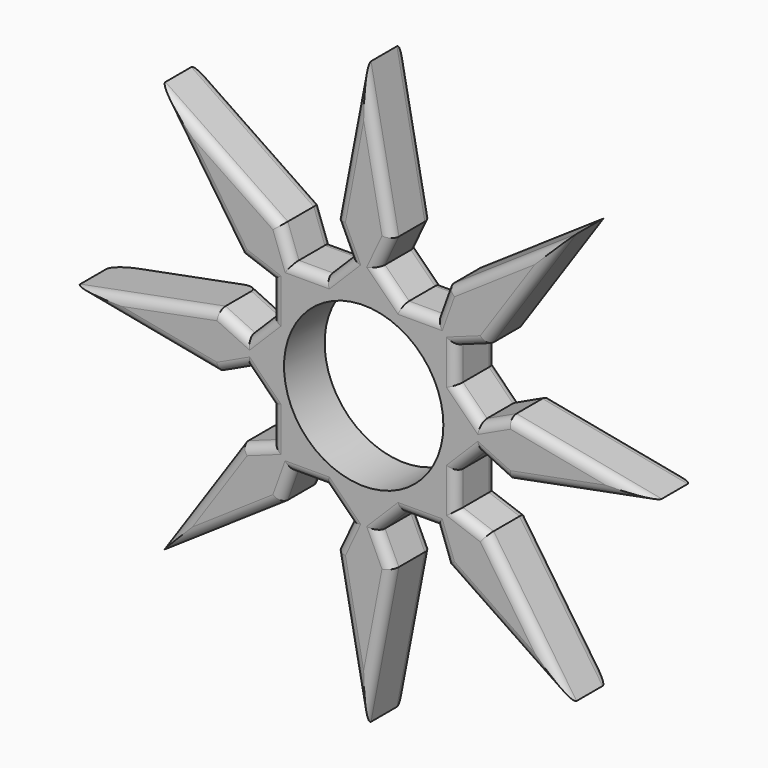
from build123d import *

# Parameters (mm, degrees)
F0_R     = 10.9982
F1_DEPTH = 7.0104
F2_R     = 1.27
F3_R     = 1.27


with BuildPart() as f1:
    # F0 (on Front) → F1 (new body)
    with BuildSketch(Plane.XZ):
        Polygon((-12.7, 9.9571658781), (-12.7, 5.2605122421), (-5.2605122421, 12.7), (-9.9571658781, 12.7), (-11.4818856978, 16.9197350247), (-28.3834853749, 28.3834853749), (-16.9197350247, 11.4818856978), align=None)
        Polygon((-16.0210356348, -1.9394766073), (-12.7, -5.2605122421), (-12.7, 5.2605122421), (-16.0210356348, 1.9394766073), (-20.0829786096, 3.8451401341), (-40.1403099645, 0), (-20.0829786096, -3.8451401341), align=None)
        Polygon((-9.9571658781, -12.7), (-5.2605122421, -12.7), (-12.7, -5.2605122421), (-12.7, -9.9571658781), (-16.9197350247, -11.4818856978), (-28.3834853749, -28.3834853749), (-11.4818856978, -16.9197350247), align=None)
        Polygon((1.9394766073, -16.0210356348), (5.2605122421, -12.7), (-5.2605122421, -12.7), (-1.9394766073, -16.0210356348), (-3.8451401341, -20.0829786096), (0, -40.1403099645), (3.8451401341, -20.0829786096), align=None)
        Polygon((12.7, -5.2605122421), (5.2605122421, -12.7), (9.9571658781, -12.7), (11.4818856978, -16.9197350247), (28.3834853749, -28.3834853749), (16.9197350247, -11.4818856978), (12.7, -9.9571658781), align=None)
        Polygon((12.7, 5.2605122421), (12.7, -5.2605122421), (16.0210356348, -1.9394766073), (20.0829786096, -3.8451401341), (40.1403099645, 0), (20.0829786096, 3.8451401341), (16.0210356348, 1.9394766073), align=None)
        Polygon((5.2605122421, 12.7), (12.7, 5.2605122421), (12.7, 9.9571658781), (16.9197350247, 11.4818856978), (28.3834853749, 28.3834853749), (11.4818856978, 16.9197350247), (9.9571658781, 12.7), align=None)
        Polygon((-5.2605122421, 12.7), (5.2605122421, 12.7), (1.9394766073, 16.0210356348), (3.8451401341, 20.0829786096), (0, 40.1403099645), (-3.8451401341, 20.0829786096), (-1.9394766073, 16.0210356348), align=None)
        Polygon((-5.2605122421, -12.7), (5.2605122421, -12.7), (12.7, -5.2605122421), (12.7, 5.2605122421), (5.2605122421, 12.7), (-5.2605122421, 12.7), (-12.7, 5.2605122421), (-12.7, -5.2605122421), align=None)
        Circle(F0_R, mode=Mode.SUBTRACT)
    extrude(amount=F1_DEPTH)

    # F2
    f2_edges = [f1.edges().sort_by_distance(p)[0] for p in [
        (-1.92257, -7.0104, -30.111644),
        (1.92257, -7.0104, -30.111644),
        (2.892308, -7.0104, -18.052007),
        (3.599994, -7.0104, -14.360518),
        (7.608839, -7.0104, -12.7),
        (10.719526, -7.0104, -14.809868),
        (19.932686, -7.0104, -22.65161),
        (22.65161, -7.0104, -19.932686),
        (14.809868, -7.0104, -10.719526),
        (12.7, -7.0104, -7.608839),
        (14.360518, -7.0104, -3.599994),
        (18.052007, -7.0104, -2.892308),
        (30.111644, -7.0104, -1.92257),
        (30.111644, -7.0104, 1.92257),
        (18.052007, -7.0104, 2.892308),
        (14.360518, -7.0104, 3.599994),
        (12.7, -7.0104, 7.608839),
        (14.809868, -7.0104, 10.719526),
        (22.65161, -7.0104, 19.932686),
        (19.932686, -7.0104, 22.65161),
        (10.719526, -7.0104, 14.809868),
        (7.608839, -7.0104, 12.7),
        (3.599994, -7.0104, 14.360518),
        (2.892308, -7.0104, 18.052007),
        (1.92257, -7.0104, 30.111644),
        (-1.92257, -7.0104, 30.111644),
        (-2.892308, -7.0104, 18.052007),
        (-3.599994, -7.0104, 14.360518),
        (-7.608839, -7.0104, 12.7),
        (-10.719526, -7.0104, 14.809868),
        (-19.932686, -7.0104, 22.65161),
        (-22.65161, -7.0104, 19.932686),
        (-14.809868, -7.0104, 10.719526),
        (-12.7, -7.0104, 7.608839),
        (-14.360518, -7.0104, 3.599994),
        (-18.052007, -7.0104, 2.892308),
        (-30.111644, -7.0104, 1.92257),
        (-19.932686, -7.0104, -22.65161),
        (-10.719526, -7.0104, -14.809868),
        (-7.608839, -7.0104, -12.7),
        (-3.599994, -7.0104, -14.360518),
        (-22.65161, -7.0104, -19.932686),
        (-14.809868, -7.0104, -10.719526),
        (-12.7, -7.0104, -7.608839),
        (-14.360518, -7.0104, -3.599994),
        (-18.052007, -7.0104, -2.892308),
        (-30.111644, -7.0104, -1.92257),
        (-2.892308, -7.0104, -18.052007),
    ]]
    fillet(f2_edges, radius=F2_R)

    # F3
    f3_edges = [f1.edges().sort_by_distance(p)[0] for p in [
        (19.932686, 0, 22.65161),
        (22.65161, 0, 19.932686),
        (14.809868, 0, 10.719526),
        (10.719526, 0, 14.809868),
        (7.608839, 0, 12.7),
        (3.599994, 0, 14.360518),
        (2.892308, 0, 18.052007),
        (1.92257, 0, 30.111644),
        (-1.92257, 0, 30.111644),
        (-2.892308, 0, 18.052007),
        (-3.599994, 0, 14.360518),
        (-7.608839, 0, 12.7),
        (-10.719526, 0, 14.809868),
        (-19.932686, 0, 22.65161),
        (-22.65161, 0, 19.932686),
        (-14.809868, 0, 10.719526),
        (-12.7, 0, 7.608839),
        (-14.360518, 0, 3.599994),
        (-18.052007, 0, 2.892308),
        (-30.111644, -5.7404, 1.92257),
        (-30.111644, 0, -1.92257),
        (-18.052007, 0, -2.892308),
        (-14.360518, 0, -3.599994),
        (-12.7, 0, -7.608839),
        (-14.809868, 0, -10.719526),
        (-22.65161, -5.7404, -19.932686),
        (-19.932686, 0, -22.65161),
        (-10.719526, 0, -14.809868),
        (-7.608839, 0, -12.7),
        (-3.599994, 0, -14.360518),
        (-2.892308, -5.7404, -18.052007),
        (-1.92257, 0, -30.111644),
        (1.92257, 0, -30.111644),
        (2.892308, 0, -18.052007),
        (3.599994, 0, -14.360518),
        (7.608839, 0, -12.7),
        (10.719526, 0, -14.809868),
        (19.932686, 0, -22.65161),
        (22.65161, 0, -19.932686),
        (14.809868, 0, -10.719526),
        (12.7, 0, -7.608839),
        (14.360518, 0, -3.599994),
        (18.052007, 0, -2.892308),
        (30.111644, 0, -1.92257),
        (30.111644, 0, 1.92257),
        (18.052007, 0, 2.892308),
        (14.360518, 0, 3.599994),
        (12.7, 0, 7.608839),
    ]]
    fillet(f3_edges, radius=F3_R)


solid = f1.part
